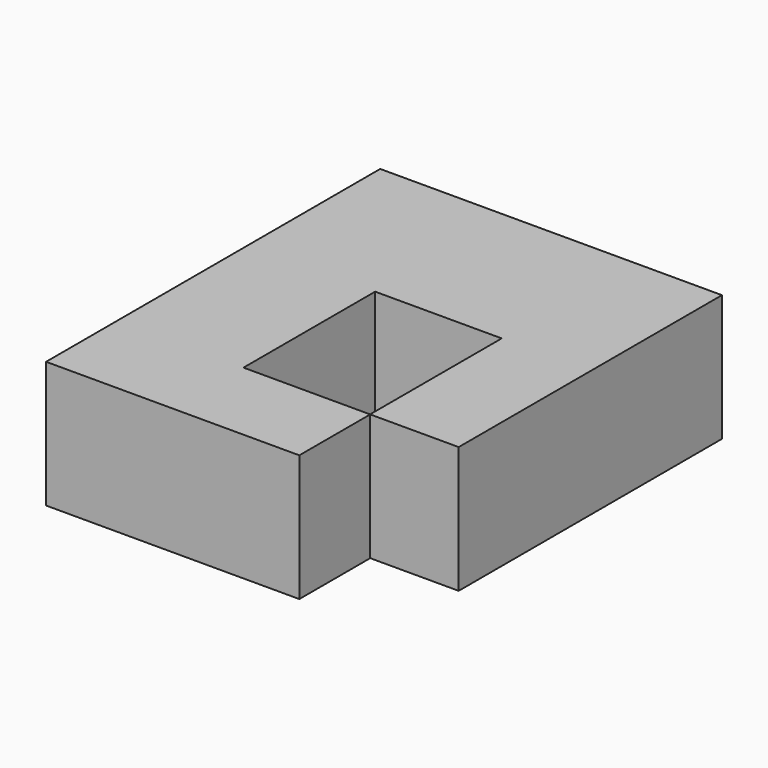
from build123d import *

# Parameters (mm, degrees)
F0_W     = 33.02
F0_H     = 25.4
F1_DEPTH = 17.78
F2_DEPTH = 68.58
F3_W     = 25.4
F3_H     = 25.4
F4_DEPTH = 50.8
F5_W     = 17.78
F5_H     = 25.4
F6_DEPTH = 25.4254


with BuildPart() as f1:
    # F0 (on Right) → F1 (new body)
    with BuildSketch(Plane.YZ):
        with Locations((-45.790768, -52.245537)):
            Rectangle(F0_W, F0_H)
    extrude(amount=-F1_DEPTH)

    # F0 (on Right) → F2 (join)
    with BuildSketch(Plane.YZ):
        with Locations((-12.770768, -52.245537)):
            Rectangle(F0_W, F0_H)
    extrude(amount=-F2_DEPTH)

    # F3 (on face) → F4 (join)
    with BuildSketch(Plane.XZ.offset(29.280768)):
        with Locations((-55.88, -52.245537)):
            Rectangle(F3_W, F3_H)
    extrude(amount=F4_DEPTH)

    # F5 (on face) → F6 (join)
    with BuildSketch(Plane.YZ.offset(-43.18)):
        with Locations((-71.190768, -52.245537)):
            Rectangle(F5_W, F5_H)
    extrude(amount=F6_DEPTH)


solid = f1.part
